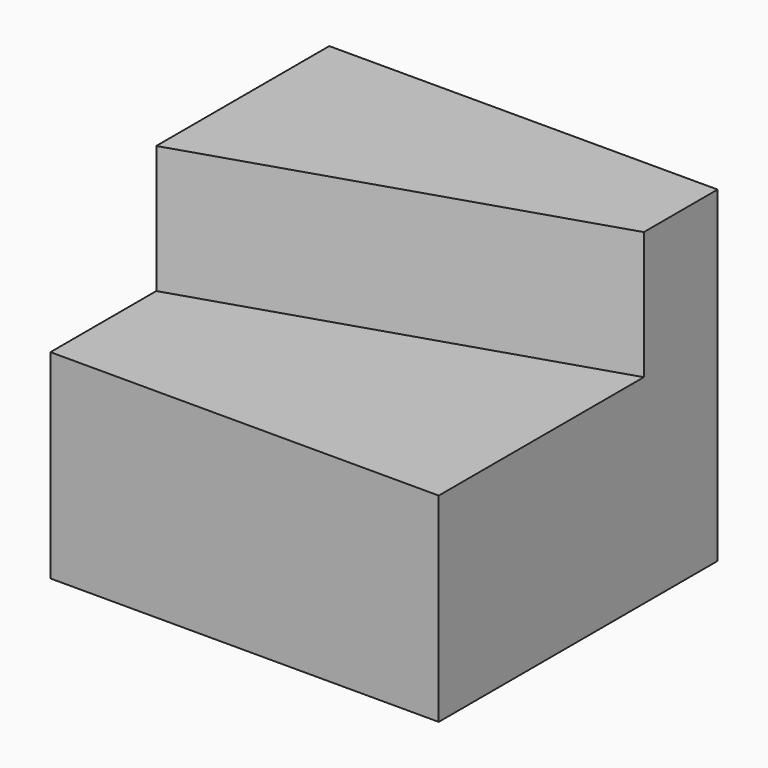
from build123d import *

# Parameters (mm, degrees)
F0_W     = 76.00291
F0_H     = 68.219476
F1_DEPTH = 32
F3_DEPTH = 25


with BuildPart() as f1:
    # F0 (on Top) → F1 (new body, symmetric)
    with BuildSketch(Plane.XY):
        Rectangle(F0_W, F0_H)
    extrude(amount=F1_DEPTH, both=True)

    # F2 (on face) → F3 (cut)
    with BuildSketch(Plane.XY.offset(32)):
        Polygon((-38.001455, -34.109738), (38.001455, -34.109738), (38.001455, 16.062718), (-38.001455, -8.216379), align=None)
    extrude(amount=-F3_DEPTH, mode=Mode.SUBTRACT)


solid = f1.part
